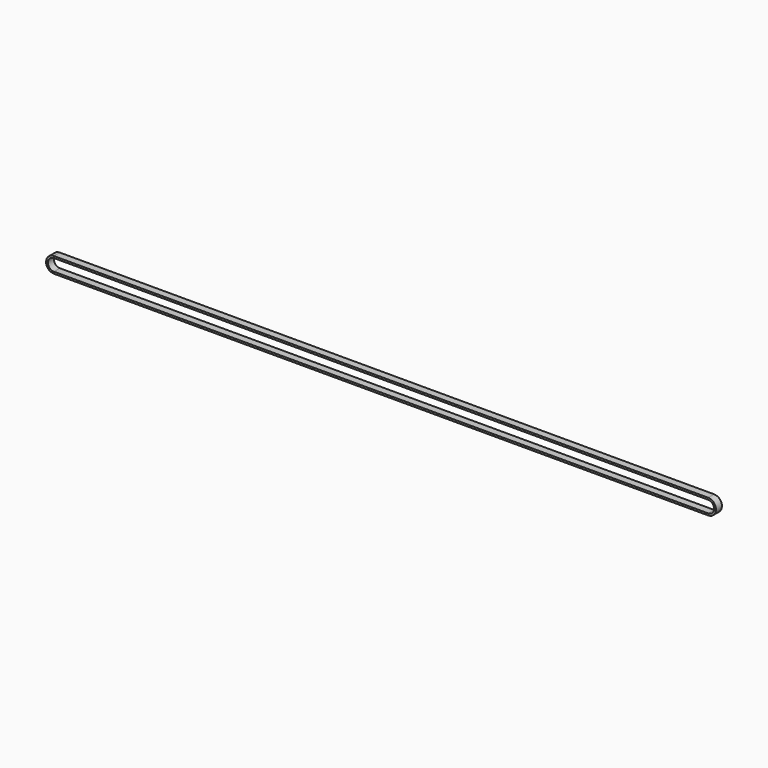
from build123d import *

# Parameters (mm, degrees)
PAD_DEPTH = 6


with BuildPart() as part:
    # Sketch → Pad (new body)
    with BuildSketch(Plane.XZ):
        with BuildLine():
            ThreePointArc((-263.75, 6.3), (-270.05, 0), (-263.75, -6.3))
            Line((263.75, -6.3), (-263.75, -6.3))
            ThreePointArc((263.75, -6.3), (270.05, 0), (263.75, 6.3))
            Line((-263.75, 6.3), (263.75, 6.3))
        make_face()
        with BuildLine():
            ThreePointArc((-263.75, 4.8), (-268.55, 0), (-263.75, -4.8))
            Line((-263.75, -4.8), (263.749984, -4.8))
            ThreePointArc((263.749984, -4.8), (268.55, -8e-06), (263.75, 4.8))
            Line((263.75, 4.8), (-263.75, 4.8))
        make_face(mode=Mode.SUBTRACT)
    extrude(amount=PAD_DEPTH)


solid = part.part
